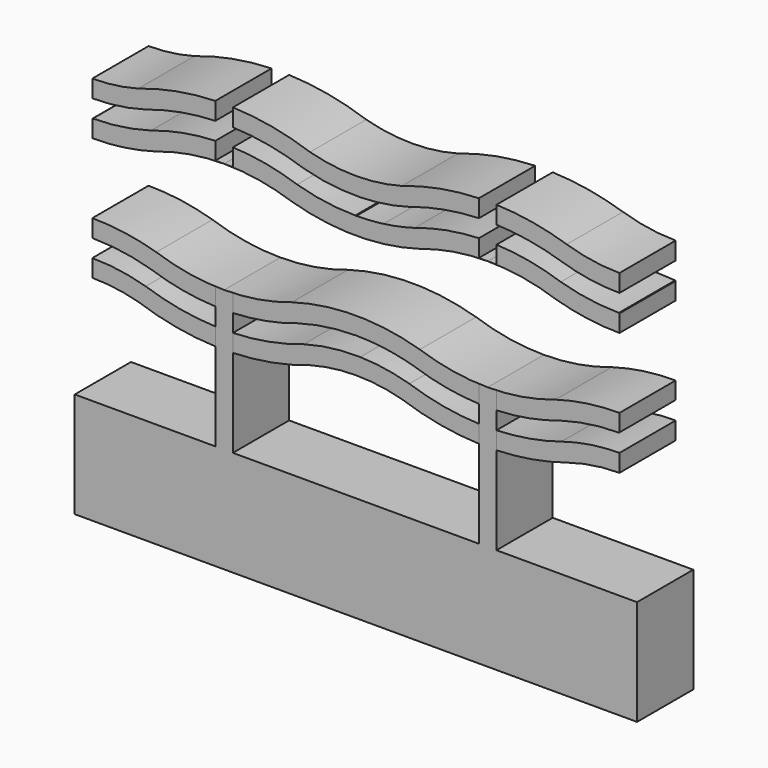
from build123d import *

# Parameters (mm, degrees)
F0_W     = 1.5875
F0_H     = 12.7
F1_DEPTH = 6.35
F3_DEPTH = 6.35


with BuildPart() as f1:
    # F0 (on Front) → F1 (new body)
    with BuildSketch(Plane.XZ):
        Polygon((-25.4, -4.7625), (25.4, -4.7625), (25.4, 4.7625), (12.7, 4.7625), (11.1125, 4.7625), (-11.1125, 4.7625), (-12.7, 4.7625), (-25.4, 4.7625), align=None)
        with Locations((11.90625, 11.1125)):
            Rectangle(F0_W, F0_H)
        with Locations((-11.90625, 11.1125)):
            Rectangle(F0_W, F0_H)
    extrude(amount=F1_DEPTH)


with BuildPart() as f3:
    # F2 (on face) → F3 (new body)
    with BuildSketch(Plane.XZ.offset(6.35)):
        with BuildLine():
            ThreePointArc((-11.90625, 17.4625), (-15.011546, 17.717297), (-18.033773, 18.474874))
            ThreePointArc((-18.033773, 18.474874), (-20.8938, 19.093006), (-23.8125, 19.30044))
            Line((-23.8125, 19.30044), (-23.8125, 17.745725))
            ThreePointArc((-23.8125, 17.745725), (-23.786538, 17.729279), (-23.760553, 17.712869))
            ThreePointArc((-23.760553, 17.712869), (-21.109077, 17.52014), (-18.51025, 16.96017))
            ThreePointArc((-18.51025, 16.96017), (-15.643608, 16.21623), (-12.7, 15.89027))
            Line((-12.7, 15.89027), (-12.7, 17.4625))
            Line((-12.7, 17.4625), (-11.90625, 17.4625))
        make_face()
        with BuildLine():
            Line((-12.7, 12.713233), (-12.7, 14.301679))
            ThreePointArc((-12.7, 14.301679), (-15.883309, 14.646233), (-18.984072, 15.444632))
            ThreePointArc((-18.984072, 15.444632), (-21.374406, 15.9544), (-23.8125, 16.12544))
            Line((-23.8125, 16.12544), (-23.8125, 14.55064))
            ThreePointArc((-23.8125, 14.55064), (-21.722425, 14.412562), (-19.668678, 14.000728))
            ThreePointArc((-19.668678, 14.000728), (-16.232502, 13.096294), (-12.7, 12.713233))
        make_face()
        with BuildLine():
            ThreePointArc((-5.778727, 18.474874), (-8.800954, 17.717297), (-11.90625, 17.4625))
            Line((-11.90625, 17.4625), (-11.1125, 17.4625))
            Line((-11.1125, 17.4625), (-11.1125, 15.89027))
            ThreePointArc((-11.1125, 15.89027), (-8.168892, 16.21623), (-5.30225, 16.96017))
            ThreePointArc((-5.30225, 16.96017), (-2.703423, 17.52014), (-0.051947, 17.712869))
            ThreePointArc((-0.051947, 17.712869), (-0.025962, 17.729279), (0, 17.745725))
            ThreePointArc((0, 17.745725), (0.025962, 17.729279), (0.051947, 17.712869))
            ThreePointArc((0.051947, 17.712869), (1.276394, 17.670131), (2.495562, 17.548772))
            ThreePointArc((2.495562, 17.548772), (3.909998, 17.307361), (5.30225, 16.96017))
            ThreePointArc((5.30225, 16.96017), (8.168892, 16.21623), (11.1125, 15.89027))
            Line((11.1125, 15.89027), (11.1125, 17.4625))
            Line((11.1125, 17.4625), (11.90625, 17.4625))
            ThreePointArc((11.90625, 17.4625), (8.800954, 17.717297), (5.778727, 18.474874))
            ThreePointArc((5.778727, 18.474874), (0, 19.30044), (-5.778727, 18.474874))
        make_face()
        with BuildLine():
            ThreePointArc((-4.703763, 15.486925), (-7.864449, 14.658107), (-11.1125, 14.301679))
            Line((-11.1125, 14.301679), (-11.1125, 12.713233))
            ThreePointArc((-11.1125, 12.713233), (-7.579998, 13.096294), (-4.143822, 14.000728))
            ThreePointArc((-4.143822, 14.000728), (0, 14.55064), (4.143822, 14.000728))
            ThreePointArc((4.143822, 14.000728), (7.579998, 13.096294), (11.1125, 12.713233))
            Line((11.1125, 12.713233), (11.1125, 14.301679))
            ThreePointArc((11.1125, 14.301679), (7.929191, 14.646233), (4.828428, 15.444632))
            ThreePointArc((4.828428, 15.444632), (2.634241, 15.927257), (0.39625, 16.124178))
            ThreePointArc((0.39625, 16.124178), (-2.17733, 15.994212), (-4.703763, 15.486925))
        make_face()
        with BuildLine():
            ThreePointArc((18.033773, 18.474874), (15.011546, 17.717297), (11.90625, 17.4625))
            Line((11.90625, 17.4625), (12.7, 17.4625))
            Line((12.7, 17.4625), (12.7, 15.89027))
            ThreePointArc((12.7, 15.89027), (15.643608, 16.21623), (18.51025, 16.96017))
            ThreePointArc((18.51025, 16.96017), (21.109077, 17.52014), (23.760553, 17.712869))
            ThreePointArc((23.760553, 17.712869), (23.786538, 17.729279), (23.8125, 17.745725))
            Line((23.8125, 17.745725), (23.8125, 19.30044))
            ThreePointArc((23.8125, 19.30044), (20.8938, 19.093006), (18.033773, 18.474874))
        make_face()
        with BuildLine():
            ThreePointArc((18.575337, 15.3117), (15.671688, 14.608799), (12.7, 14.301679))
            Line((12.7, 14.301679), (12.7, 12.713233))
            ThreePointArc((12.7, 12.713233), (15.91269, 13.03946), (19.051701, 13.797358))
            ThreePointArc((19.051701, 13.797358), (21.404193, 14.344645), (23.8125, 14.528494))
            Line((23.8125, 14.528494), (23.8125, 16.115994))
            ThreePointArc((23.8125, 16.115994), (21.163219, 15.913749), (18.575337, 15.3117))
        make_face()
    extrude(amount=-F3_DEPTH)


with BuildPart() as f5_1:
    # F5: instance of F3
    add(f3.part.mirror(Plane(origin=(0, -3.175, 22.47646), x_dir=(1, 0, 0), z_dir=(0, 0, -1))))


solid = Compound([f1.part, f3.part, f5_1.part])
